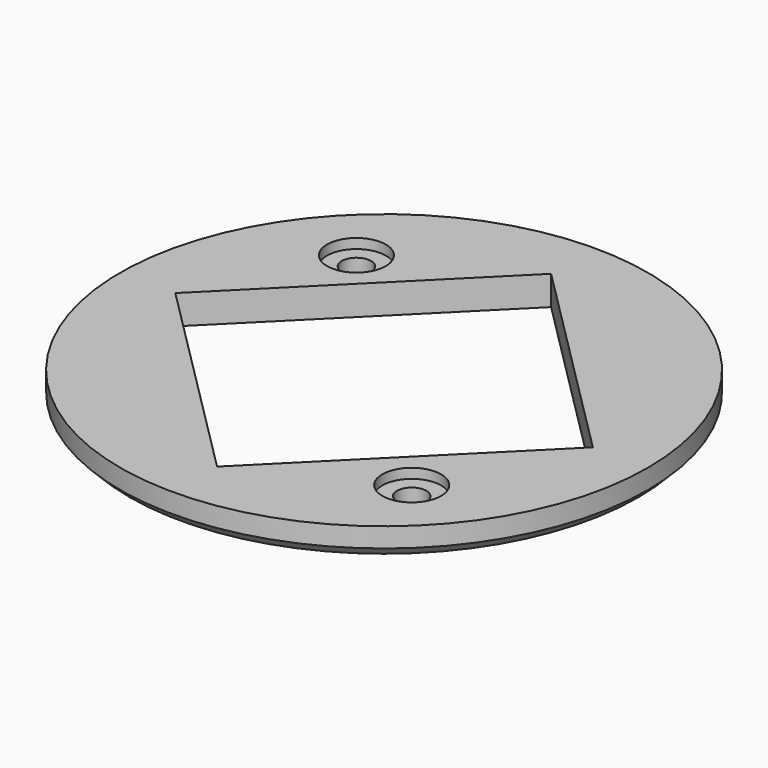
from build123d import *

# Parameters (mm, degrees)
CYLINDER814_R               = 1.5
CYLINDER814_DEPTH           = 20
CYLINDER814_PLACEMENT_ANGLE = 135
CYLINDER815_R               = 1.5
CYLINDER815_DEPTH           = 20
CYLINDER815_PLACEMENT_ANGLE = 45
CYLINDER812_R               = 3
CYLINDER812_DEPTH           = 3
CYLINDER812_PLACEMENT_ANGLE = 135
CYLINDER813_R               = 3
CYLINDER813_DEPTH           = 3
CYLINDER813_PLACEMENT_ANGLE = 45
BOX316_W                    = 30.2
BOX316_H                    = 30.2
BOX316_DEPTH                = 100
BOX316_PLACEMENT_ANGLE      = 45
CYLINDER806_R               = 27
CYLINDER806_DEPTH           = 3
CHAMFER001_SIZE             = 1


with BuildPart() as obj1:
    # Cylinder814 → Cylinder814 (new body)
    with BuildSketch(Plane.XY):
        Circle(CYLINDER814_R)
    extrude(amount=CYLINDER814_DEPTH)


with BuildPart() as obj1_1:
    # Cylinder814 placement: moved
    add(obj1.part.moved(Location((-14.142136, 14.142136, -30))).rotate(Axis((-14.142136, 14.142136, -30), (0, 0, 1)), CYLINDER814_PLACEMENT_ANGLE))


with BuildPart() as compound724:
    # Cylinder815 → Cylinder815 (new body)
    with BuildSketch(Plane.XY):
        Circle(CYLINDER815_R)
    extrude(amount=CYLINDER815_DEPTH)


with BuildPart() as compound724_1:
    # Cylinder815 placement: moved
    add(compound724.part.moved(Location((14.142136, -14.142136, -30))).rotate(Axis((14.142136, -14.142136, -30), (0, 0, -1)), CYLINDER815_PLACEMENT_ANGLE))

    # Compound724: union obj1
    add(obj1_1.part)


with BuildPart() as obj2:
    # Cylinder812 → Cylinder812 (new body)
    with BuildSketch(Plane.XY):
        Circle(CYLINDER812_R)
    extrude(amount=CYLINDER812_DEPTH)


with BuildPart() as obj2_1:
    # Cylinder812 placement: moved
    add(obj2.part.moved(Location((-14.142136, 14.142136, -30))).rotate(Axis((-14.142136, 14.142136, -30), (0, 0, 1)), CYLINDER812_PLACEMENT_ANGLE))


with BuildPart() as compound723:
    # Cylinder813 → Cylinder813 (new body)
    with BuildSketch(Plane.XY):
        Circle(CYLINDER813_R)
    extrude(amount=CYLINDER813_DEPTH)


with BuildPart() as compound723_1:
    # Cylinder813 placement: moved
    add(compound723.part.moved(Location((14.142136, -14.142136, -30))).rotate(Axis((14.142136, -14.142136, -30), (0, 0, -1)), CYLINDER813_PLACEMENT_ANGLE))

    # Compound723: union obj2
    add(obj2_1.part)


with BuildPart() as compound723_2:
    # Compound723 placement: moved
    add(compound723_1.part.moved(Location((0, 0, 17))))


with BuildPart() as krychle316:
    # Box316 → Box316 (new body)
    with BuildSketch(Plane.XY):
        with Locations((15.1, 15.1)):
            Rectangle(BOX316_W, BOX316_H)
    extrude(amount=BOX316_DEPTH)


with BuildPart() as krychle316_1:
    # Box316 placement: moved
    add(krychle316.part.moved(Location((0, -21.354625, -30))).rotate(Axis((0, -21.354625, -30), (0, 0, 1)), BOX316_PLACEMENT_ANGLE))


with BuildPart() as g_midi_belt_wheel_front:
    # Cylinder806 → Cylinder806 (new body)
    with BuildSketch(Plane.XY.offset(-15)):
        Circle(CYLINDER806_R)
    extrude(amount=CYLINDER806_DEPTH)

    # Cut341: cut Krychle316
    add(krychle316_1.part, mode=Mode.SUBTRACT)

    # Chamfer001
    chamfer001_edges = [g_midi_belt_wheel_front.edges().sort_by_distance(p)[0] for p in [
        (-27, 0, -15),
    ]]
    chamfer(chamfer001_edges, length=CHAMFER001_SIZE)

    # Cut345: cut Compound723
    add(compound723_2.part, mode=Mode.SUBTRACT)

    # Cut346: cut Compound724
    add(compound724_1.part, mode=Mode.SUBTRACT)


with BuildPart() as g_midi_belt_wheel_front_1:
    # Cut346 placement: moved
    add(g_midi_belt_wheel_front.part.moved(Location((0, 0, 54))))


solid = g_midi_belt_wheel_front_1.part
